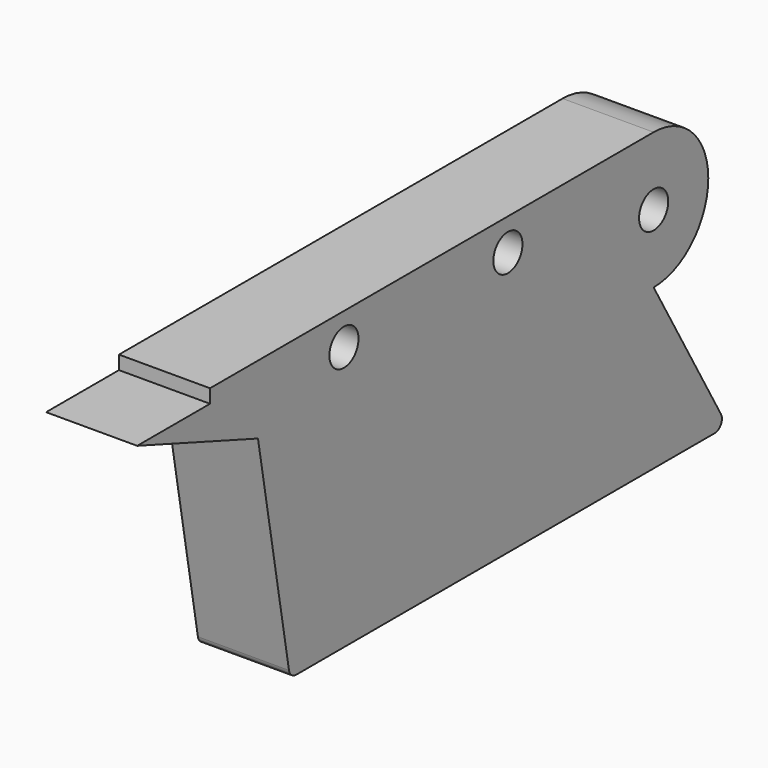
from build123d import *

# Parameters (mm, degrees)
F0_R     = 4
F1_DEPTH = 20


with BuildPart() as f1:
    # F0 (on Right) → F1 (new body)
    with BuildSketch(Plane.YZ):
        with BuildLine():
            Line((50, 15), (-71.757568, 15))
            Line((-71.757568, 15), (-71.757568, 12))
            Line((-71.757568, 12), (-91.757568, 12))
            Line((-91.757568, 12), (-58.596831, -0.069521))
            Line((-58.596831, -0.069521), (-50.084157, -48.347296))
            ThreePointArc((-50.084157, -48.347296), (-49.400117, -49.532089), (-48.114541, -50))
            Line((-48.114541, -50), (66.743158, -50))
            ThreePointArc((66.743158, -50), (68.475209, -49), (68.475209, -47))
            Line((68.475209, -47), (50, -15))
            ThreePointArc((50, -15), (65, 0), (50, 15))
        make_face()
        with Locations((-35, 8)):
            Circle(F0_R, mode=Mode.SUBTRACT)
        with Locations((10, 8)):
            Circle(F0_R, mode=Mode.SUBTRACT)
        with Locations((50, 0)):
            Circle(F0_R, mode=Mode.SUBTRACT)
    extrude(amount=F1_DEPTH)


solid = f1.part
